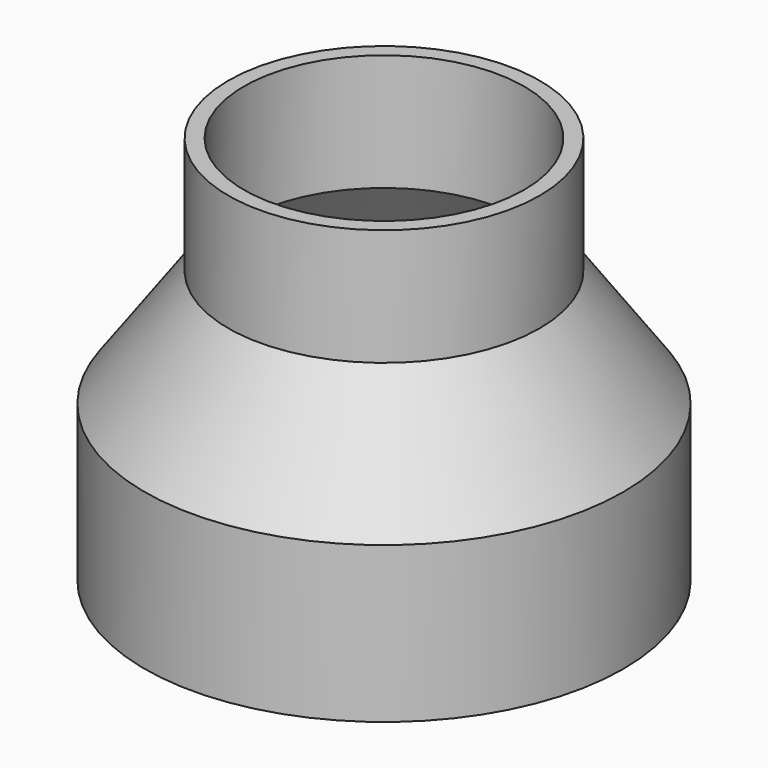
from build123d import *


with BuildPart() as part:
    # Sketch → Revolution (revolve)
    with BuildSketch(Plane.XZ):
        Polygon((28.75, 0), (30.75, 0), (30.75, 20), (20, 35), (20, 50), (18, 50), (18, 35), (28.75, 20), align=None)
    revolve(axis=Axis((0, 0, 0), (0, 0, 1)))


solid = part.part
